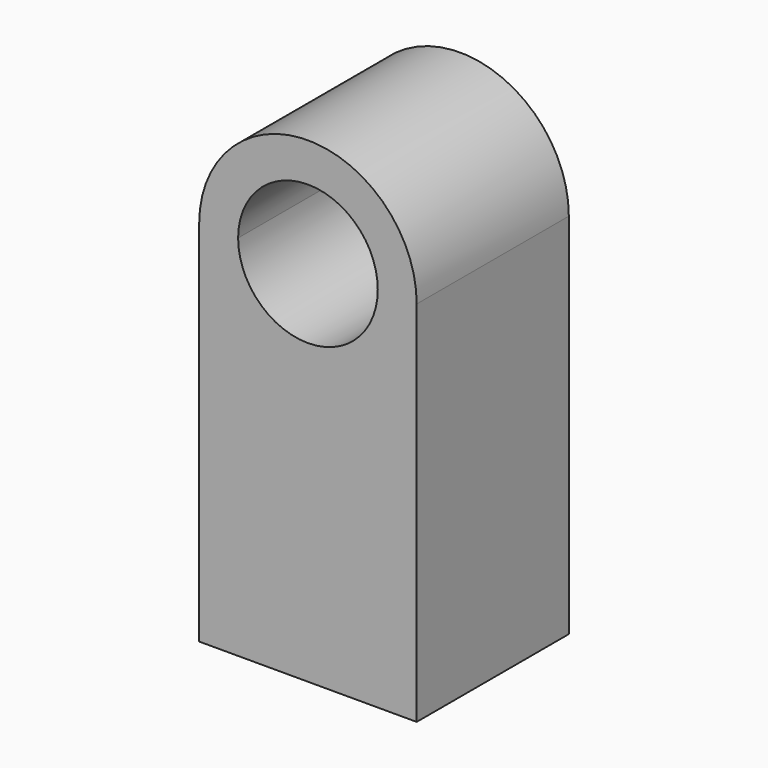
from build123d import *

# Parameters (mm, degrees)
F1_DEPTH = 42.164


with BuildPart() as f1:
    # F0 (on Front) → F1 (new body)
    with BuildSketch(Plane.XZ):
        with BuildLine():
            Line((24.118349, -40.791471), (24.118349, 40.791471))
            ThreePointArc((24.118349, 40.791471), (0, 16.673122), (-24.118349, 40.791471))
            Line((-24.118349, 40.791471), (-24.118349, -40.791471))
            Line((-24.118349, -40.791471), (24.118349, -40.791471))
        make_face()
        with BuildLine():
            Line((15.482349, 40.791471), (24.118349, 40.791471))
            ThreePointArc((24.118349, 40.791471), (0, 64.90982), (-24.118349, 40.791471))
            Line((-24.118349, 40.791471), (-15.482349, 40.791471))
            ThreePointArc((-15.482349, 40.791471), (0, 56.27382), (15.482349, 40.791471))
        make_face()
        with BuildLine():
            ThreePointArc((-24.118349, 40.791471), (0, 16.673122), (24.118349, 40.791471))
            Line((24.118349, 40.791471), (15.482349, 40.791471))
            ThreePointArc((15.482349, 40.791471), (0, 25.309121), (-15.482349, 40.791471))
            Line((-15.482349, 40.791471), (-24.118349, 40.791471))
        make_face()
    extrude(amount=F1_DEPTH)


solid = f1.part
